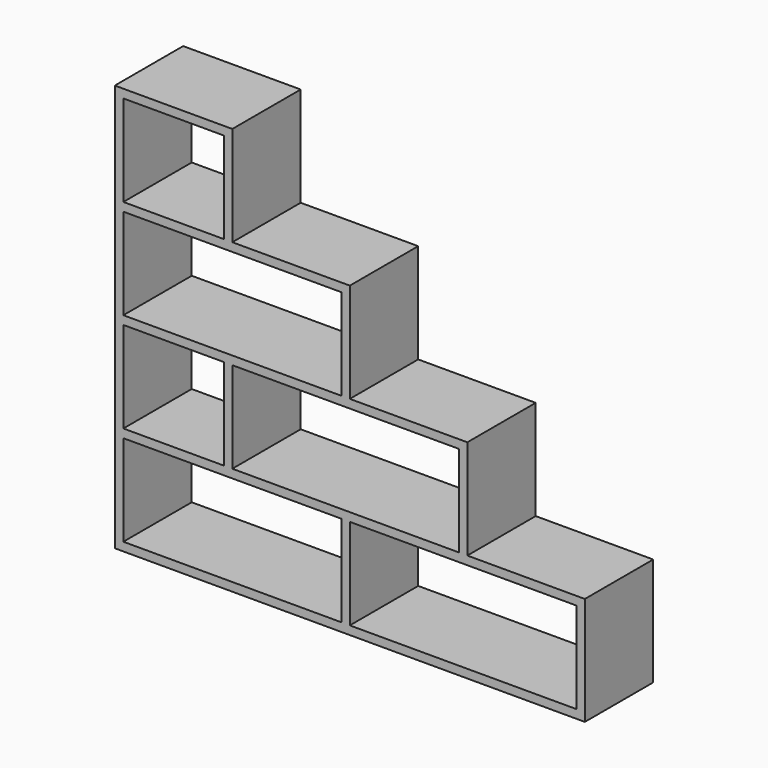
from build123d import *

# Parameters (mm, degrees)
F0_W     = 0.3
F0_H     = 3.2
F1_DEPTH = 3


with BuildPart() as f1:
    # F0 (on Front) → F1 (new body)
    with BuildSketch(Plane.XZ):
        Polygon((-4.425, 10.5), (-4.125, 10.5), (-4.125, 14), (-8.25, 14), (-8.25, 10.5), (-7.95, 10.5), (-7.95, 13.7), (-4.425, 13.7), align=None)
        Polygon((-0.3, 7), (0, 7), (0, 10.5), (-4.125, 10.5), (-4.425, 10.5), (-7.95, 10.5), (-8.25, 10.5), (-8.25, 7), (-7.95, 7), (-7.95, 10.2), (-0.3, 10.2), align=None)
        Polygon((3.825, 3.5), (4.125, 3.5), (4.125, 7), (0, 7), (-0.3, 7), (-7.95, 7), (-8.25, 7), (-8.25, 3.5), (-7.95, 3.5), (-7.95, 6.7), (-4.425, 6.7), (-4.125, 6.7), (3.825, 6.7), align=None)
        with Locations((-4.275, 5.1)):
            Rectangle(F0_W, F0_H)
        Polygon((7.95, 0), (8.25, 0), (8.25, 3.5), (4.125, 3.5), (3.825, 3.5), (-4.125, 3.5), (-4.425, 3.5), (-7.95, 3.5), (-8.25, 3.5), (-8.25, 0), (-7.95, 0), (-7.95, 3.2), (-0.3, 3.2), (0, 3.2), (7.95, 3.2), align=None)
        with Locations((-0.15, 1.6)):
            Rectangle(F0_W, F0_H)
        Polygon((8.25, -0.3), (8.25, 0), (7.95, 0), (0, 0), (-0.3, 0), (-7.95, 0), (-8.25, 0), (-8.25, -0.3), align=None)
    extrude(amount=F1_DEPTH)


solid = f1.part
